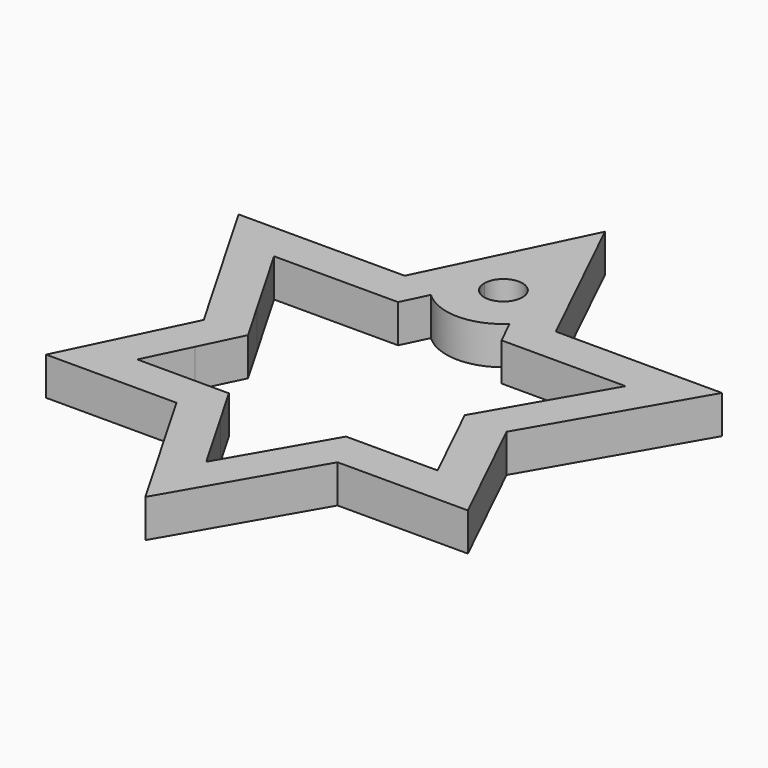
from build123d import *

# Parameters (mm, degrees)
F1_DEPTH = 2


with BuildPart() as f1:
    # F0 (on Top) → F1 (new body)
    with BuildSketch(Plane.XY):
        with BuildLine():
            Line((0, 15.5223844547), (-3.9714244495, 7.3323484187))
            Line((-3.9714244495, 7.3323484187), (-1.7486900915, 7.3323484187))
            Line((-1.7486900915, 7.3323484187), (-1.0022187869, 8.8717524694))
            ThreePointArc((-1.0022187869, 8.8717524694), (0, 9.8563649226), (1.0022187869, 8.8717524694))
            Line((1.0022187869, 8.8717524694), (1.7486900915, 7.3323484187))
            Line((1.7486900915, 7.3323484187), (3.9714244495, 7.3323484187))
            Line((3.9714244495, 7.3323484187), (0, 15.5223844547))
        make_face()
        with BuildLine():
            Line((1.7486900915, 7.3323484187), (-1.7486900915, 7.3323484187))
            Line((-1.7486900915, 7.3323484187), (-2.066830398, 6.676266298))
            ThreePointArc((-2.066830398, 6.676266298), (0, 5.8516125213), (2.066830398, 6.676266298))
            Line((2.066830398, 6.676266298), (1.7486900915, 7.3323484187))
        make_face()
        Polygon((-3.9714244495, 7.3323484187), (-12.7, 7.3323484187), (-7.9559188912, -0.8846410969), (-6.9017038362, 1.2894048657), (-9.2358983849, 5.3323484187), (-4.9412430027, 5.3323484187), align=None)
        Polygon((-1.7486900915, 7.3323484187), (-3.9714244495, 7.3323484187), (-4.9412430027, 5.3323484187), (-2.7185086447, 5.3323484187), (-2.066830398, 6.676266298), align=None)
        Polygon((12.7, 7.3323484187), (3.9714244495, 7.3323484187), (4.9412430027, 5.3323484187), (9.2358983849, 5.3323484187), (6.9017038362, 1.2894048657), (7.9559188912, -0.8846410969), align=None)
        Polygon((3.9714244495, 7.3323484187), (1.7486900915, 7.3323484187), (2.066830398, 6.676266298), (2.7185086447, 5.3323484187), (4.9412430027, 5.3323484187), align=None)
        Polygon((-6.9017038362, 1.2894048657), (-7.9559188912, -0.8846410969), (-6.747837227, -2.977099919), (-5.693622172, -0.8030539564), align=None)
        Polygon((-6.747837227, -2.977099919), (-7.9559188912, -0.8846410969), (-11.0824719843, -7.3323484187), (-4.2333333333, -7.3323484187), (-5.3880338717, -5.3323484187), (-7.8899190732, -5.3323484187), align=None)
        Polygon((-3.078632795, -5.3323484187), (-5.3880338717, -5.3323484187), (-4.2333333333, -7.3323484187), (-1.9239322566, -7.3323484187), align=None)
        Polygon((-1.9239322566, -7.3323484187), (-4.2333333333, -7.3323484187), (0, -14.6646968374), (4.2333333333, -7.3323484187), (1.9239322566, -7.3323484187), (0, -10.6646968374), align=None)
        Polygon((1.9239322566, -7.3323484187), (4.2333333333, -7.3323484187), (5.3880338717, -5.3323484187), (3.078632795, -5.3323484187), align=None)
        Polygon((11.0824719843, -7.3323484187), (7.9559188912, -0.8846410969), (6.747837227, -2.977099919), (7.8899190732, -5.3323484187), (5.3880338717, -5.3323484187), (4.2333333333, -7.3323484187), align=None)
        Polygon((6.747837227, -2.977099919), (7.9559188912, -0.8846410969), (6.9017038362, 1.2894048657), (5.693622172, -0.8030539564), align=None)
        with BuildLine():
            Line((-1.0022187869, 8.8717524694), (-1.7486900915, 7.3323484187))
            Line((-1.7486900915, 7.3323484187), (1.7486900915, 7.3323484187))
            Line((1.7486900915, 7.3323484187), (1.0022187869, 8.8717524694))
            ThreePointArc((1.0022187869, 8.8717524694), (0, 7.8516125213), (-1.0022187869, 8.8717524694))
        make_face()
    extrude(amount=F1_DEPTH)


solid = f1.part
